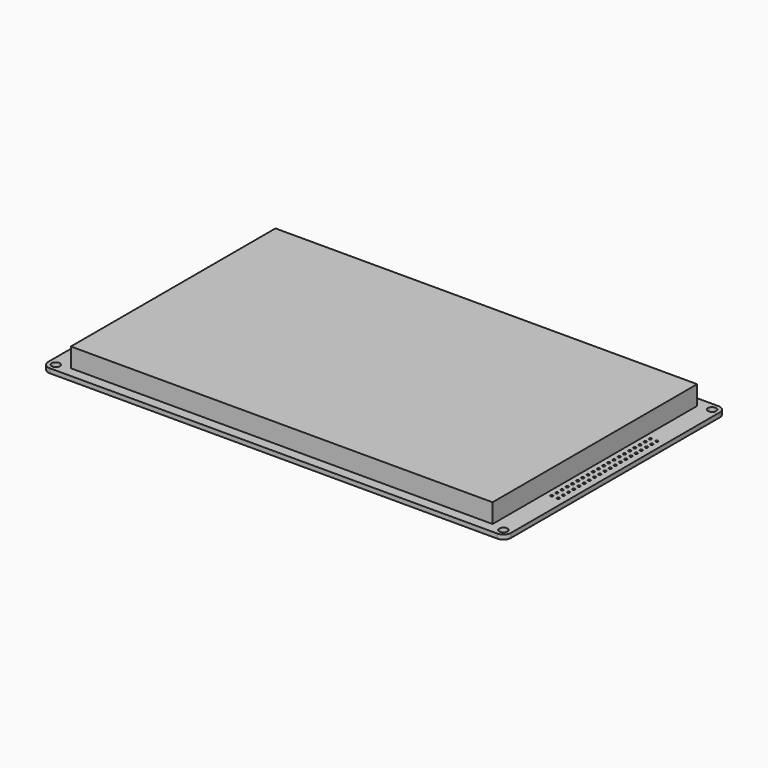
from build123d import *

# Parameters (mm, degrees)
F0_R     = 1.6
F0_R_2   = 0.5
F0_W     = 164.9
F0_H     = 100
F1_DEPTH = 1.75
F2_DEPTH = 7.5


with BuildPart() as f1:
    # F0 (on Top) → F1 (new body)
    with BuildSketch(Plane.XY):
        with BuildLine():
            ThreePointArc((0, 3), (0.87868, 0.87868), (3, 0))
            Line((3, 0), (178, 0))
            ThreePointArc((178, 0), (180.12132, 0.87868), (181, 3))
            Line((181, 3), (181, 105))
            ThreePointArc((181, 105), (180.12132, 107.12132), (178, 108))
            Line((178, 108), (3, 108))
            ThreePointArc((3, 108), (0.87868, 107.12132), (0, 105))
            Line((0, 105), (0, 3))
        make_face()
        with Locations((3, 3)):
            Circle(F0_R, mode=Mode.SUBTRACT)
        with Locations((178, 3)):
            Circle(F0_R, mode=Mode.SUBTRACT)
        with Locations((175.378702, 29.87)):
            Circle(F0_R_2, mode=Mode.SUBTRACT)
        with Locations((177.918702, 29.87)):
            Circle(F0_R_2, mode=Mode.SUBTRACT)
        with Locations((175.378702, 32.41)):
            Circle(F0_R_2, mode=Mode.SUBTRACT)
        with Locations((177.918702, 32.41)):
            Circle(F0_R_2, mode=Mode.SUBTRACT)
        with Locations((175.378702, 34.95)):
            Circle(F0_R_2, mode=Mode.SUBTRACT)
        with Locations((177.918702, 34.95)):
            Circle(F0_R_2, mode=Mode.SUBTRACT)
        with Locations((175.378702, 37.49)):
            Circle(F0_R_2, mode=Mode.SUBTRACT)
        with Locations((177.918702, 37.49)):
            Circle(F0_R_2, mode=Mode.SUBTRACT)
        with Locations((175.378702, 40.03)):
            Circle(F0_R_2, mode=Mode.SUBTRACT)
        with Locations((177.918702, 40.03)):
            Circle(F0_R_2, mode=Mode.SUBTRACT)
        with Locations((175.378702, 42.57)):
            Circle(F0_R_2, mode=Mode.SUBTRACT)
        with Locations((177.918702, 42.57)):
            Circle(F0_R_2, mode=Mode.SUBTRACT)
        with Locations((175.378702, 45.11)):
            Circle(F0_R_2, mode=Mode.SUBTRACT)
        with Locations((177.918702, 45.11)):
            Circle(F0_R_2, mode=Mode.SUBTRACT)
        with Locations((175.378702, 47.65)):
            Circle(F0_R_2, mode=Mode.SUBTRACT)
        with Locations((177.918702, 47.65)):
            Circle(F0_R_2, mode=Mode.SUBTRACT)
        with Locations((175.378702, 50.19)):
            Circle(F0_R_2, mode=Mode.SUBTRACT)
        with Locations((177.918702, 50.19)):
            Circle(F0_R_2, mode=Mode.SUBTRACT)
        with Locations((175.378702, 52.73)):
            Circle(F0_R_2, mode=Mode.SUBTRACT)
        with Locations((177.918702, 52.73)):
            Circle(F0_R_2, mode=Mode.SUBTRACT)
        with Locations((3, 105)):
            Circle(F0_R, mode=Mode.SUBTRACT)
        with Locations((90.5, 54)):
            Rectangle(F0_W, F0_H, mode=Mode.SUBTRACT)
        with Locations((175.378702, 55.27)):
            Circle(F0_R_2, mode=Mode.SUBTRACT)
        with Locations((177.918702, 55.27)):
            Circle(F0_R_2, mode=Mode.SUBTRACT)
        with Locations((175.378702, 57.81)):
            Circle(F0_R_2, mode=Mode.SUBTRACT)
        with Locations((177.918702, 57.81)):
            Circle(F0_R_2, mode=Mode.SUBTRACT)
        with Locations((175.378702, 60.35)):
            Circle(F0_R_2, mode=Mode.SUBTRACT)
        with Locations((177.918702, 60.35)):
            Circle(F0_R_2, mode=Mode.SUBTRACT)
        with Locations((175.378702, 62.89)):
            Circle(F0_R_2, mode=Mode.SUBTRACT)
        with Locations((177.918702, 62.89)):
            Circle(F0_R_2, mode=Mode.SUBTRACT)
        with Locations((175.378702, 65.43)):
            Circle(F0_R_2, mode=Mode.SUBTRACT)
        with Locations((177.918702, 65.43)):
            Circle(F0_R_2, mode=Mode.SUBTRACT)
        with Locations((175.378702, 67.97)):
            Circle(F0_R_2, mode=Mode.SUBTRACT)
        with Locations((177.918702, 67.97)):
            Circle(F0_R_2, mode=Mode.SUBTRACT)
        with Locations((175.378702, 70.51)):
            Circle(F0_R_2, mode=Mode.SUBTRACT)
        with Locations((177.918702, 70.51)):
            Circle(F0_R_2, mode=Mode.SUBTRACT)
        with Locations((175.378702, 73.05)):
            Circle(F0_R_2, mode=Mode.SUBTRACT)
        with Locations((177.918702, 73.05)):
            Circle(F0_R_2, mode=Mode.SUBTRACT)
        with Locations((175.378702, 75.59)):
            Circle(F0_R_2, mode=Mode.SUBTRACT)
        with Locations((177.918702, 75.59)):
            Circle(F0_R_2, mode=Mode.SUBTRACT)
        with Locations((175.378702, 78.13)):
            Circle(F0_R_2, mode=Mode.SUBTRACT)
        with Locations((177.918702, 78.13)):
            Circle(F0_R_2, mode=Mode.SUBTRACT)
        with Locations((178, 105)):
            Circle(F0_R, mode=Mode.SUBTRACT)
        with Locations((90.5, 54)):
            Rectangle(F0_W, F0_H)
    extrude(amount=-F1_DEPTH)

    # F0 (on Top) → F2 (join)
    with BuildSketch(Plane.XY):
        with Locations((90.5, 54)):
            Rectangle(F0_W, F0_H)
    extrude(amount=F2_DEPTH)


solid = f1.part
